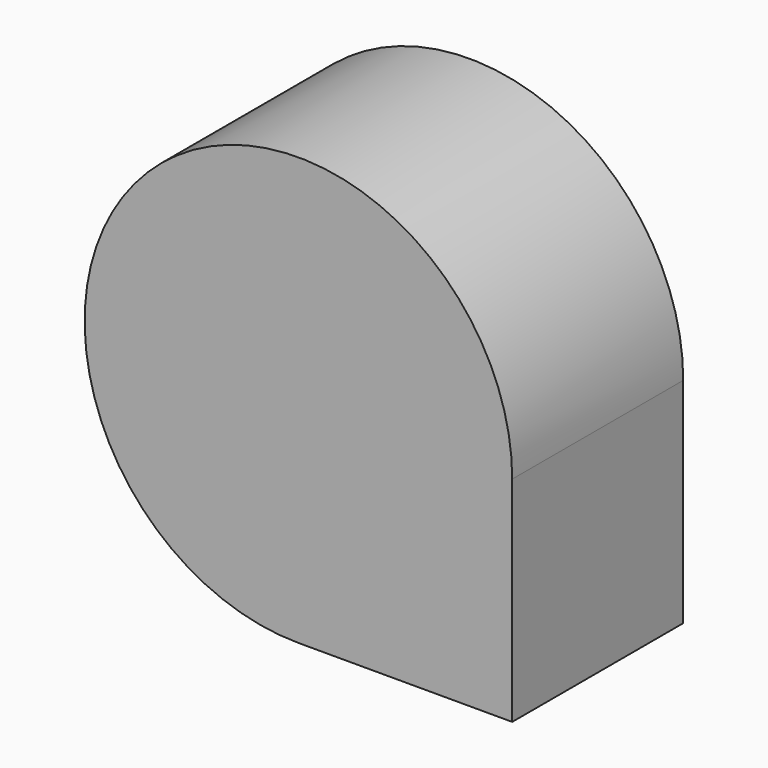
from build123d import *

# Parameters (mm, degrees)
F0_W      = 50
F0_H      = 50
F1_DEPTH  = 25
F1_FACE_W = 50
F1_FACE_H = 50


with BuildPart() as f1:
    # F0 (on Top) → F1 (new body, symmetric)
    with BuildSketch(Plane.XY):
        with Locations((-13.272473, -1.748359)):
            Rectangle(F0_W, F0_H)
    extrude(amount=F1_DEPTH, both=True)

    # F1_face (on face) → F2 (revolve)
    with BuildSketch(Plane(origin=(-13.272473, -1.748359, 25), x_dir=(1, 0, 0), z_dir=(0, 0, 1))):
        Rectangle(F1_FACE_W, F1_FACE_H)
    revolve(axis=Axis((-38.272473, -1.748359, 25), (0, -1, 0)))


solid = f1.part
